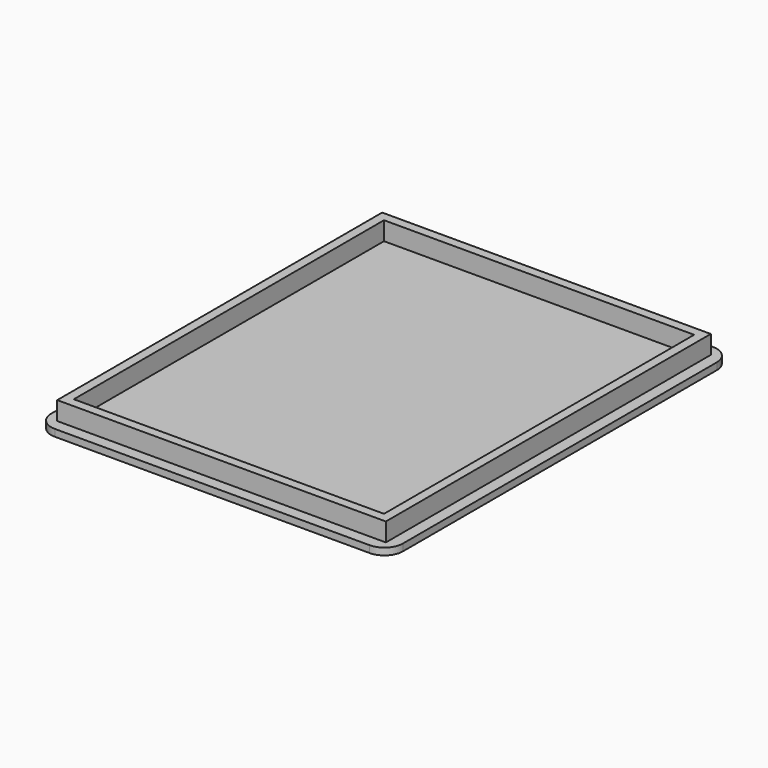
from build123d import *

# Parameters (mm, degrees)
F0_W     = 71.2
F0_H     = 88
F1_DEPTH = 1.5
F2_W     = 71.2
F2_H     = 88
F2_W_2   = 67.2
F2_H_2   = 84
F3_DEPTH = 4


with BuildPart() as f1:
    # F0 (on Top) → F1 (new body)
    with BuildSketch(Plane.XY):
        with BuildLine():
            Line((35.4853983939, 37.8176547885), (-32.7146016061, 37.8176547885))
            ThreePointArc((-32.7146016061, 37.8176547885), (-35.5430287309, 36.6460819132), (-36.7146016061, 33.8176547885))
            Line((-36.7146016061, 33.8176547885), (-36.7146016061, -51.1823452115))
            ThreePointArc((-36.7146016061, -51.1823452115), (-35.5430287309, -54.0107723363), (-32.7146016061, -55.1823452115))
            Line((-32.7146016061, -55.1823452115), (35.4853983939, -55.1823452115))
            ThreePointArc((35.4853983939, -55.1823452115), (38.3138255186, -54.0107723363), (39.4853983939, -51.1823452115))
            Line((39.4853983939, -51.1823452115), (39.4853983939, 33.8176547885))
            ThreePointArc((39.4853983939, 33.8176547885), (38.3138255186, 36.6460819132), (35.4853983939, 37.8176547885))
        make_face()
        with Locations((1.3853983939, -8.6823452115)):
            Rectangle(F0_W, F0_H, mode=Mode.SUBTRACT)
        with Locations((1.3853983939, -8.6823452115)):
            Rectangle(F0_W, F0_H)
    extrude(amount=F1_DEPTH)

    # F2 (on face) → F3 (join)
    with BuildSketch(Plane.XY.offset(1.5)):
        with Locations((1.3853983939, -8.6823452115)):
            Rectangle(F2_W, F2_H)
        with Locations((1.3853983939, -8.6823452115)):
            Rectangle(F2_W_2, F2_H_2, mode=Mode.SUBTRACT)
    extrude(amount=F3_DEPTH)


solid = f1.part
